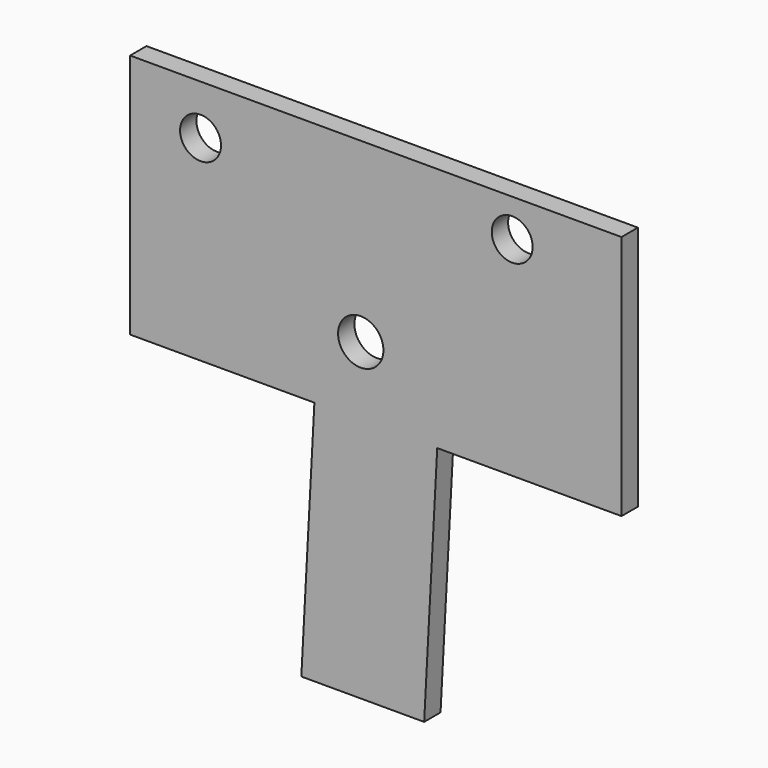
from build123d import *

# Parameters (mm, degrees)
F1_DEPTH = 12.7
F2_R     = 12.7
F2_R_2   = 14.065671
F3_DEPTH = 61.214


with BuildPart() as f1:
    # F0 (on Front) → F1 (new body)
    with BuildSketch(Plane.XZ):
        Polygon((-77.600956, 42.763185), (36.699044, 42.763185), (28.587316, -109.420782), (104.787316, -109.420782), (112.899044, 42.763185), (227.199044, 42.763185), (227.199044, 195.163185), (-77.600956, 195.163185), align=None)
    extrude(amount=F1_DEPTH)

    # F2 (on face) → F3 (cut)
    with BuildSketch(Plane.XZ.offset(12.7)):
        with Locations((-33.92983, 164.380682)):
            Circle(F2_R)
        with Locations((65.435274, 85.294179)):
            Circle(F2_R_2)
        with Locations((159.39275, 171.816179)):
            Circle(F2_R)
    extrude(amount=-F3_DEPTH, mode=Mode.SUBTRACT)


solid = f1.part
